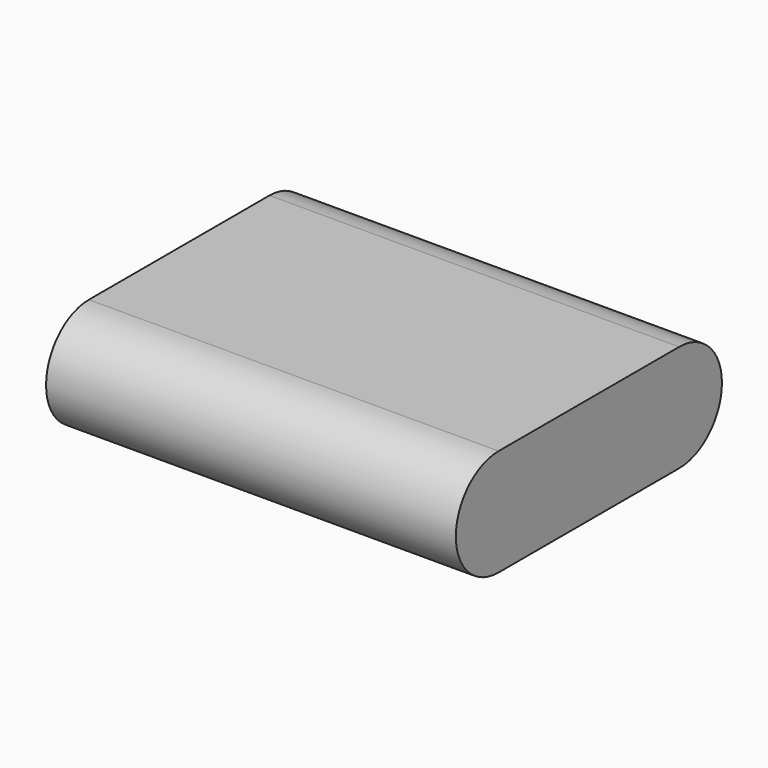
from build123d import *

# Parameters (mm, degrees)
F1_DEPTH = 69


with BuildPart() as f1:
    # F0 (on Right) → F1 (new body)
    with BuildSketch(Plane.YZ):
        with BuildLine():
            ThreePointArc((-19, 9), (-28, 0), (-19, -9))
            Line((-19, -9), (19, -9))
            ThreePointArc((19, -9), (28, 0), (19, 9))
            Line((19, 9), (-19, 9))
        make_face()
    extrude(amount=F1_DEPTH)


solid = f1.part
